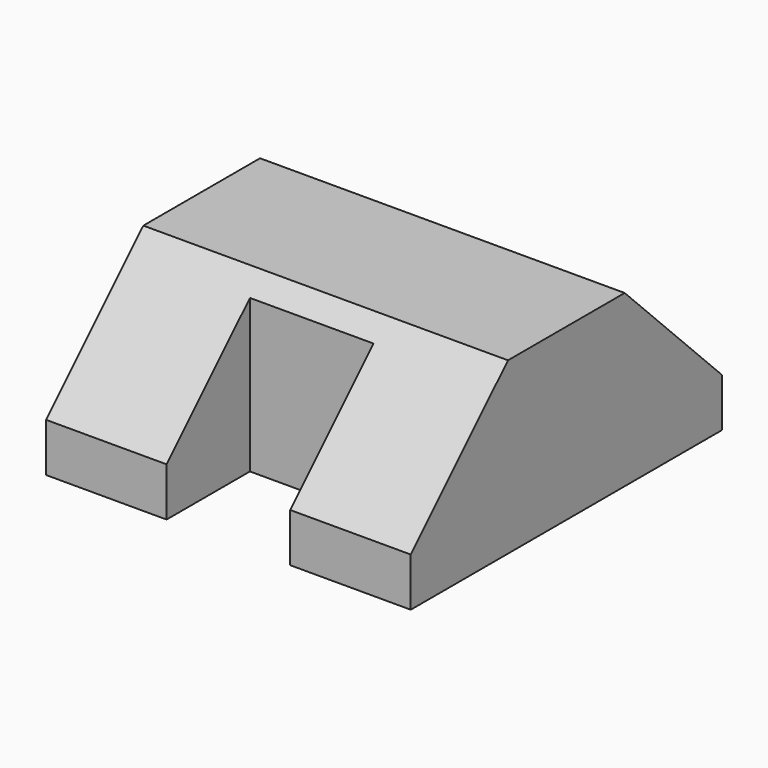
from build123d import *

# Parameters (mm, degrees)
SKETCH_W             = 3.2
SKETCH_H             = 3
PAD_DEPTH            = 1.4
CHAMFER_SIZE         = 1
SKETCH001_W          = 2.017963
SKETCH001_H          = 1.017
POCKET_DEPTH         = 5
BODY_PLACEMENT_ANGLE = 90


with BuildPart() as part:
    # Sketch → Pad (new body)
    with BuildSketch(Plane.XY):
        Rectangle(SKETCH_W, SKETCH_H)
    extrude(amount=PAD_DEPTH)

    # Chamfer
    chamfer_edges = [part.edges().sort_by_distance(p)[0] for p in [
        (-1.6, 0, 1.4),
        (1.6, 0, 1.4),
    ]]
    chamfer(chamfer_edges, length=CHAMFER_SIZE)

    # Sketch001 (on Face5 of Chamfer) → Pocket (cut)
    with BuildSketch(Plane.XY.offset(1.4)):
        with Locations((-1.75199, 0)):
            Rectangle(SKETCH001_W, SKETCH001_H)
    extrude(amount=-POCKET_DEPTH, mode=Mode.SUBTRACT)


with BuildPart() as part_1:
    # Body placement: moved
    add(part.part.rotate(Axis((0, 0, 0), (0, 0, 1)), BODY_PLACEMENT_ANGLE))


solid = part_1.part
